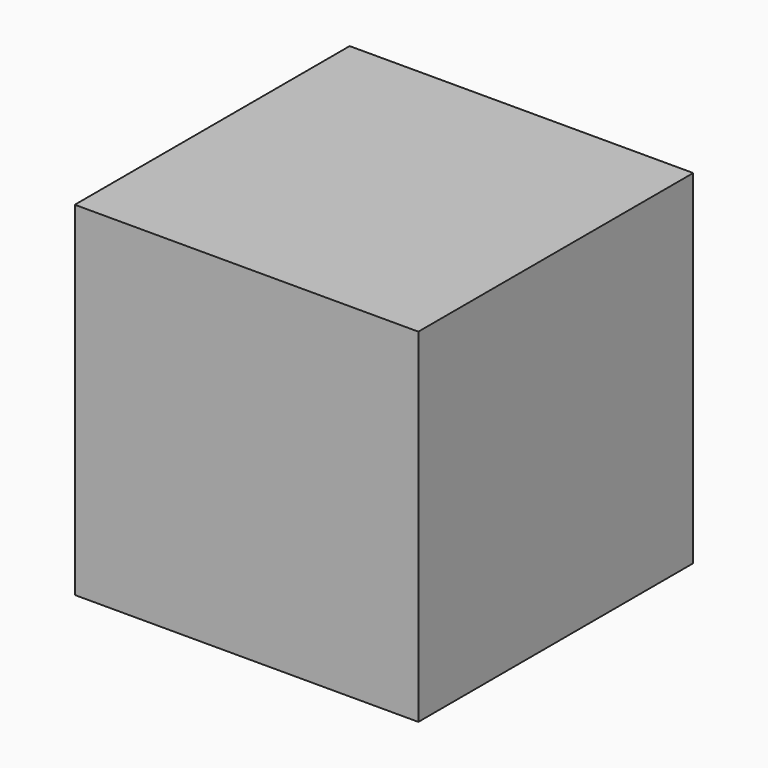
from build123d import *

# Parameters (mm, degrees)
F0_W     = 50.8
F0_H     = 50.8
F1_DEPTH = 50.8
F2_W     = 47.9298
F2_H     = 47.1678
F3_DEPTH = 43.434


with BuildPart() as f1:
    # F0 (on Right) → F1 (new body)
    with BuildSketch(Plane.YZ):
        with Locations((-25.4, 25.4)):
            Rectangle(F0_W, F0_H)
    extrude(amount=F1_DEPTH)

    # F2 (on Front) → F3 (cut)
    with BuildSketch(Plane.XZ):
        with Locations((25.492538, 25.684401)):
            Rectangle(F2_W, F2_H)
    extrude(amount=F3_DEPTH, mode=Mode.SUBTRACT)


solid = f1.part
